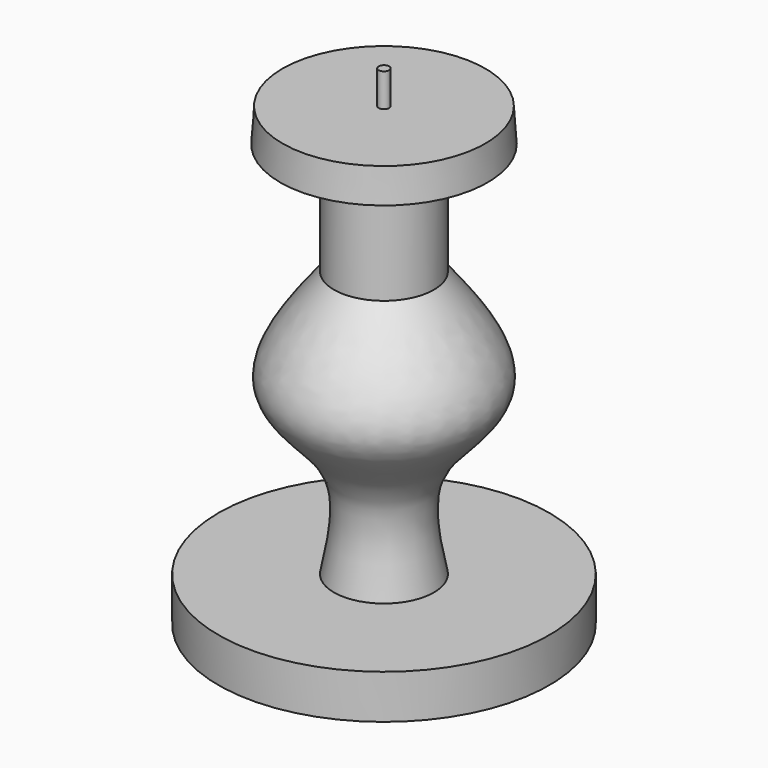
from build123d import *

# Parameters (mm, degrees)
F0_W   = 13.291821114
F0_H   = 5.08
F0_W_2 = 0.6099150633
F0_H_2 = 3.8282163441


with BuildPart() as f1:
    # F0 (on Front) → F1 (revolve)
    with BuildSketch(Plane.XZ):
        with Locations((-12.404089443, -72.1843269592)):
            Rectangle(F0_W, F0_H)
        Polygon((-5.758178886, -69.6443269592), (-5.758178886, -74.7243269592), (-4.7780917957, -74.7243269592), (0, -74.7243269592), (0, -69.6443269592), align=None)
        with BuildLine():
            add(Edge.make_bspline(
                [(-5.758178886, -69.6443269592), (-4.9648323817, -65.7790976541), (-3.4035942307, -58.1726565582), (-15.3237312615, -50.8868167952), (-9.0760322015, -43.097913485), (-5.758178886, -38.9616005123)],
                knots=[0, 0, 0, 0, 0.3263693982, 0.6422670964, 1, 1, 1, 1], degree=3))
            Line((-5.758178886, -69.6443269592), (0, -69.6443269592))
            Line((0, -69.6443269592), (0, -22.2111493349))
            Line((0, -22.2111493349), (-0.6099150633, -22.2111493349))
            Line((-0.6099150633, -22.2111493349), (-11.6852605715, -22.2111493349))
            Line((-11.6852605715, -22.2111493349), (-11.9429603219, -26.0766372085))
            Line((-11.9429603219, -26.0766372085), (-5.758178886, -26.0766372085))
            Line((-5.758178886, -26.0766372085), (-5.758178886, -38.9616005123))
        make_face()
        with Locations((-0.3049575316, -20.2970411628)):
            Rectangle(F0_W_2, F0_H_2)
    revolve(axis=Axis((0, 0, -0.6833137407), (0, 0, -1)))


solid = f1.part
